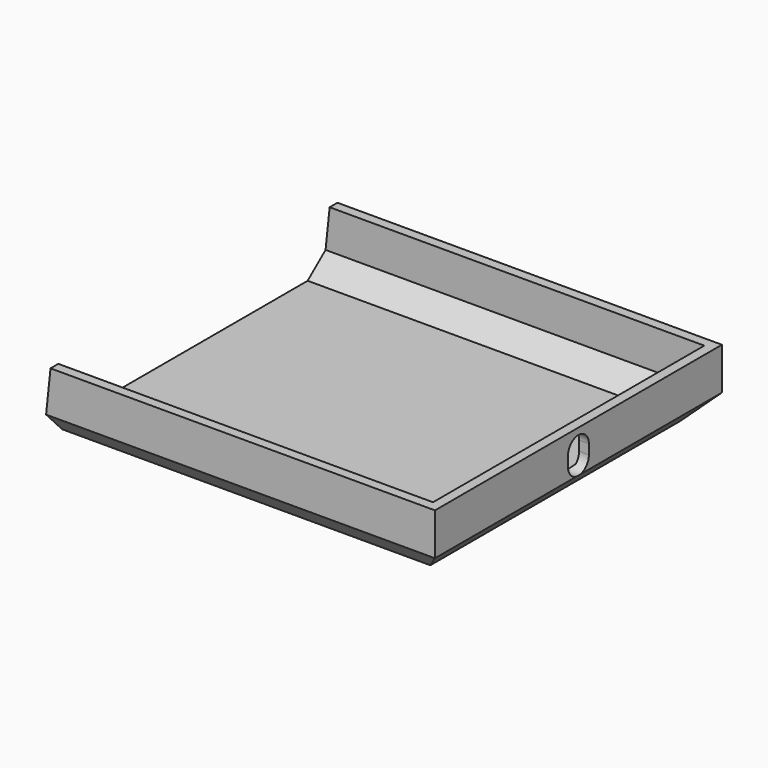
from build123d import *

# Parameters (mm, degrees)
CYLINDER001_R     = 4
CYLINDER001_DEPTH = 10
BOX011_W          = 10
BOX011_H          = 8
BOX011_DEPTH      = 3
CYLINDER002_R     = 4
CYLINDER002_DEPTH = 10
PAD002_DEPTH      = 110
BOX010_W          = 117
BOX010_H          = 104
BOX010_DEPTH      = 18
CHAMFER002_SIZE   = 6.07
BOX009_W          = 120
BOX009_H          = 110
BOX009_DEPTH      = 20
CHAMFER001_SIZE   = 7.07


with BuildPart() as cylinder001:
    # Cylinder001 → Cylinder001 (new body)
    with BuildSketch(Plane(origin=(0, 0, 6), x_dir=(0, 0, -1), z_dir=(1, 0, 0))):
        Circle(CYLINDER001_R)
    extrude(amount=CYLINDER001_DEPTH)


with BuildPart() as cube011:
    # Box011 → Box011 (new body)
    with BuildSketch(Plane(origin=(0, -4, 3), x_dir=(1, 0, 0), z_dir=(0, 0, 1))):
        with Locations((5, 4)):
            Rectangle(BOX011_W, BOX011_H)
    extrude(amount=BOX011_DEPTH)


with BuildPart() as obj1:
    # Cylinder002 → Cylinder002 (new body)
    with BuildSketch(Plane(origin=(0, 0, 3), x_dir=(0, 0, -1), z_dir=(1, 0, 0))):
        Circle(CYLINDER002_R)
    extrude(amount=CYLINDER002_DEPTH)

    # Fusion002: union Cylinder001, Cube011
    add(cylinder001.part)
    add(cube011.part)


with BuildPart() as obj1_1:
    # Fusion002 placement: moved
    add(obj1.part.moved(Location((111, 55, 8))))


with BuildPart() as pad002:
    # Sketch002 → Pad002 (new body)
    with BuildSketch(Plane.XZ):
        Polygon((0, 0), (0, 23), (2.417397, 23), align=None)
    extrude(amount=-PAD002_DEPTH)


with BuildPart() as chamfer002:
    # Box010 → Box010 (new body)
    with BuildSketch(Plane(origin=(0, 3, 2), x_dir=(1, 0, 0), z_dir=(0, 0, 1))):
        with Locations((58.5, 52)):
            Rectangle(BOX010_W, BOX010_H)
    extrude(amount=BOX010_DEPTH)

    # Chamfer002
    chamfer002_edges = [chamfer002.edges().sort_by_distance(p)[0] for p in [
        (117, 55, 2),
        (58.5, 3, 2),
        (58.5, 107, 2),
    ]]
    chamfer(chamfer002_edges, length=CHAMFER002_SIZE)


with BuildPart() as obj2:
    # Box009 → Box009 (new body)
    with BuildSketch(Plane.XY):
        with Locations((60, 55)):
            Rectangle(BOX009_W, BOX009_H)
    extrude(amount=BOX009_DEPTH)

    # Chamfer001
    chamfer001_edges = [obj2.edges().sort_by_distance(p)[0] for p in [
        (120, 55, 0),
        (60, 0, 0),
        (60, 110, 0),
    ]]
    chamfer(chamfer001_edges, length=CHAMFER001_SIZE)

    # Cut006: cut Chamfer002
    add(chamfer002.part, mode=Mode.SUBTRACT)

    # Cut007: cut Pad002
    add(pad002.part, mode=Mode.SUBTRACT)

    # Cut008: cut obj1
    add(obj1_1.part, mode=Mode.SUBTRACT)


solid = obj2.part
